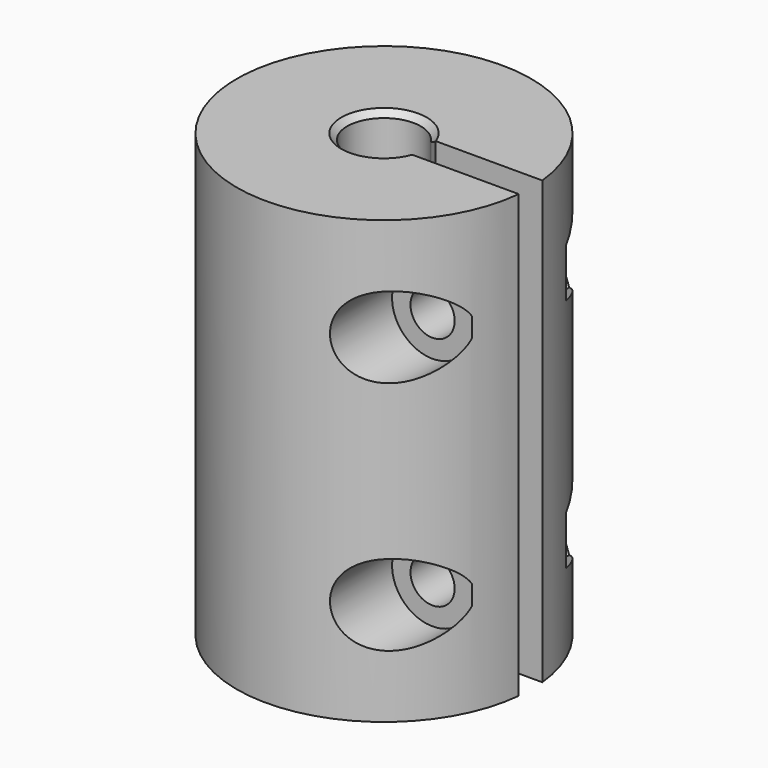
from build123d import *

# Parameters (mm, degrees)
CYLINDER010_R            = 2.75
CYLINDER010_DEPTH        = 20
PRISM002_DEPTH           = 20
PRISM002_PLACEMENT_ANGLE = 30
CYLINDER009_R            = 1.5
CYLINDER009_DEPTH        = 20
FUSION009_ROLL_ANGLE     = 90
FUSION008_ROLL_ANGLE     = 90
BOX001_W                 = 13
BOX001_H                 = 2
BOX001_DEPTH             = 32
CYLINDER008_R            = 2.5
CYLINDER008_DEPTH        = 32
CYLINDER007_R            = 4
CYLINDER007_DEPTH        = 16
CYLINDER006_R            = 10
CYLINDER006_DEPTH        = 30
CHAMFER003_SIZE          = 0.4


with BuildPart() as cylinder010:
    # Cylinder010 → Cylinder010 (new body)
    with BuildSketch(Plane.XY.offset(4)):
        Circle(CYLINDER010_R)
    extrude(amount=CYLINDER010_DEPTH)


with BuildPart() as prism002:
    # Prism002 → Prism002 (new body)
    with BuildSketch(Plane.XY):
        Polygon((3.2, 0), (1.6, 2.771281), (-1.6, 2.771281), (-3.2, 0), (-1.6, -2.771281), (1.6, -2.771281), align=None)
    extrude(amount=PRISM002_DEPTH)


with BuildPart() as prism002_1:
    # Prism002 placement: moved
    add(prism002.part.moved(Location((0, 0, -24))).rotate(Axis((0, 0, -24), (0, 0, 1)), PRISM002_PLACEMENT_ANGLE))


with BuildPart() as cylinder009:
    # Cylinder009 → Cylinder009 (new body)
    with BuildSketch(Plane.XY.offset(-7)):
        Circle(CYLINDER009_R)
    extrude(amount=CYLINDER009_DEPTH)


with BuildPart() as fusion009:
    # Fusion009 base: copy of Cylinder009
    add(cylinder009.part)

    # Fusion009: union Cylinder010, Prism002
    add(cylinder010.part)
    add(prism002_1.part)


with BuildPart() as fusion009_1:
    # Fusion009 roll: moved
    add(fusion009.part.rotate(Axis((0, 0, 0), (1, 0, 0)), FUSION009_ROLL_ANGLE))


with BuildPart() as fusion009_2:
    # Fusion009 placement: moved
    add(fusion009_1.part.moved(Location((6.5, 0, 23))))


with BuildPart() as fusion010:
    # Fusion008 base: copy of Cylinder009
    add(cylinder009.part)

    # Fusion008: union Cylinder010, Prism002
    add(cylinder010.part)
    add(prism002_1.part)


with BuildPart() as fusion010_1:
    # Fusion008 roll: moved
    add(fusion010.part.rotate(Axis((0, 0, 0), (1, 0, 0)), FUSION008_ROLL_ANGLE))


with BuildPart() as fusion010_2:
    # Fusion008 placement: moved
    add(fusion010_1.part.moved(Location((6.5, 0, 7))))

    # Fusion010: union Fusion009
    add(fusion009_2.part)


with BuildPart() as cube001:
    # Box001 → Box001 (new body)
    with BuildSketch(Plane(origin=(0, -1, -1), x_dir=(1, 0, 0), z_dir=(0, 0, 1))):
        with Locations((6.5, 1)):
            Rectangle(BOX001_W, BOX001_H)
    extrude(amount=BOX001_DEPTH)


with BuildPart() as cylinder008:
    # Cylinder008 → Cylinder008 (new body)
    with BuildSketch(Plane.XY.offset(-1)):
        Circle(CYLINDER008_R)
    extrude(amount=CYLINDER008_DEPTH)


with BuildPart() as fusion007:
    # Cylinder007 → Cylinder007 (new body)
    with BuildSketch(Plane.XY.offset(-1)):
        Circle(CYLINDER007_R)
    extrude(amount=CYLINDER007_DEPTH)

    # Fusion007: union Cube001, Cylinder008
    add(cube001.part)
    add(cylinder008.part)


with BuildPart() as chamfer003:
    # Cylinder006 → Cylinder006 (new body)
    with BuildSketch(Plane.XY):
        Circle(CYLINDER006_R)
    extrude(amount=CYLINDER006_DEPTH)

    # Cut005: cut Fusion007
    add(fusion007.part, mode=Mode.SUBTRACT)

    # Cut006: cut Fusion010
    add(fusion010_2.part, mode=Mode.SUBTRACT)

    # Chamfer003
    chamfer003_edges = [chamfer003.edges().sort_by_distance(p)[0] for p in [
        (-2.5, 0, 30),
        (3.872983, 1, 7.5),
        (2.291288, 1, 22.5),
        (3.872983, -1, 7.5),
        (2.291288, -1, 22.5),
        (-4, 0, 0),
    ]]
    chamfer(chamfer003_edges, length=CHAMFER003_SIZE)


solid = chamfer003.part
